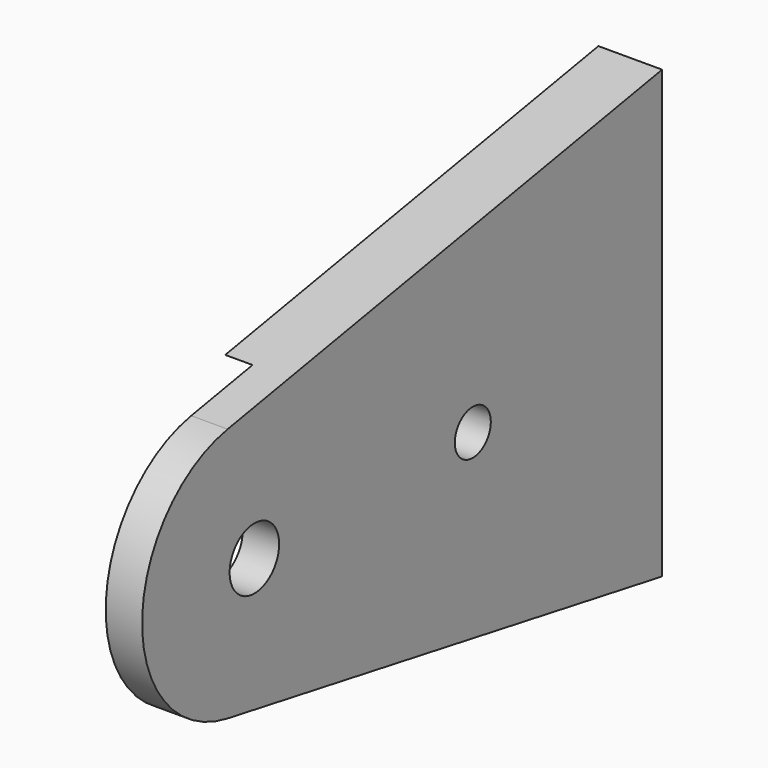
from build123d import *

# Parameters (mm, degrees)
SKETCH035_R     = 2.475
SKETCH035_R_2   = 3.4
PAD019_DEPTH    = 7
SKETCH036_W     = 11.870498
SKETCH036_H     = 2.853485
SKETCH036_W_2   = 11.727337
SKETCH036_H_2   = 2.709564
PAD020_DEPTH    = 1.8
SKETCH037_R     = 16.1879
POCKET019_DEPTH = 3
SKETCH038_W     = 2.5
SKETCH038_H     = 1.25
POCKET020_DEPTH = 1
FILLET003_R     = 0.4


with BuildPart() as part:
    # Sketch035 (on DatumPlane) → Pad019 (new body)
    with BuildSketch(Plane.YZ.offset(-30)):
        with BuildLine():
            Line((60.863192, -45.726101), (60.863192, -94.755177))
            Line((60.863192, -94.755177), (1.18502, -84.232305))
            ThreePointArc((1.18502, -56.248973), (-10.555381, -70.240639), (1.18502, -84.232305))
            Line((60.863192, -45.726101), (1.18502, -56.248973))
        make_face()
        with Locations((34.863192, -70.240639)):
            Circle(SKETCH035_R, mode=Mode.SUBTRACT)
        with Locations((4.863192, -70.240639)):
            Circle(SKETCH035_R_2, mode=Mode.SUBTRACT)
    extrude(amount=-PAD019_DEPTH)

    # Sketch036 (on Face1 of Pad019) → Pad020 (join)
    with BuildSketch(Plane.ZX.offset(60.863192)):
        with Locations((-84.965439, -35.379314)):
            Rectangle(SKETCH036_W, SKETCH036_H)
        with Locations((-58.534715, -35.418369)):
            Rectangle(SKETCH036_W_2, SKETCH036_H_2)
    extrude(amount=PAD020_DEPTH)

    # Sketch037 (on Face4 of Pad020) → Pocket019 (cut)
    with BuildSketch(Plane(origin=(-37, 0, 0), x_dir=(0, 1, 0), z_dir=(-1, 0, 0))):
        with Locations((4.863192, 70.240639)):
            Circle(SKETCH037_R)
    extrude(amount=-POCKET019_DEPTH, mode=Mode.SUBTRACT)

    # Sketch038 (on Face15 of Pocket019) → Pocket020 (cut)
    with BuildSketch(Plane(origin=(-34, 0, 0), x_dir=(0, 1, 0), z_dir=(-1, 0, 0))):
        with Locations((4.863192, 62.458053)):
            Rectangle(SKETCH038_W, SKETCH038_H)
    extrude(amount=-POCKET020_DEPTH, mode=Mode.SUBTRACT)

    # Fillet003
    fillet003_edges = [part.edges().sort_by_distance(p)[0] for p in [
        (-34.063587, 62.663192, -58.534716),
        (-35.418369, 62.663192, -52.671047),
        (-36.773151, 62.663192, -58.534716),
        (-35.418369, 62.663192, -64.398384),
        (-33.952572, 62.663192, -84.965439),
        (-35.379314, 62.663192, -79.03019),
        (-36.806057, 62.663192, -84.965439),
        (-35.379314, 62.663192, -90.900688),
    ]]
    fillet(fillet003_edges, radius=FILLET003_R)


solid = part.part
